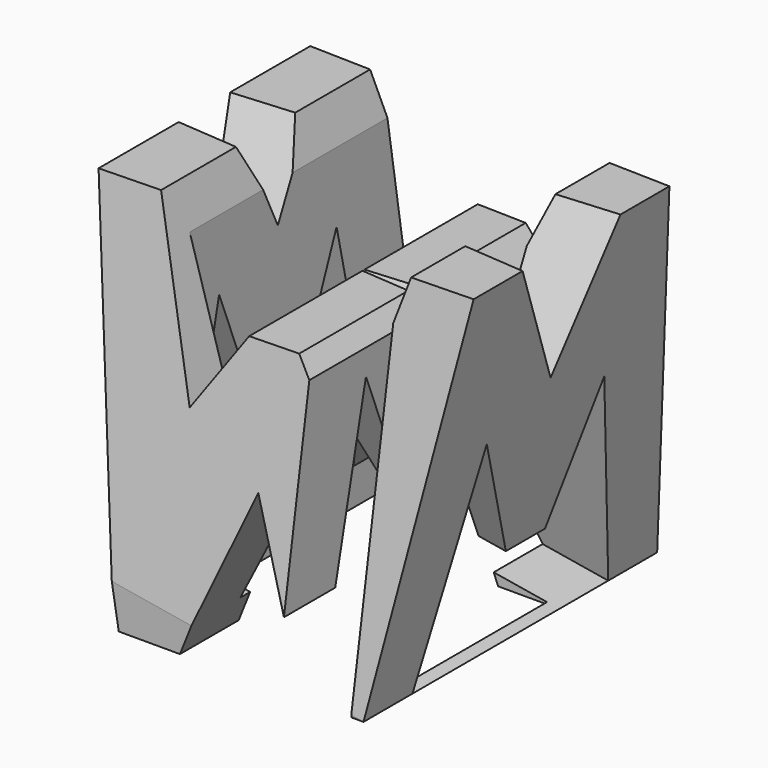
from build123d import *

# Parameters (mm, degrees)
F0_W     = 38.1
F0_H     = 38.1
F1_DEPTH = 38.1
F3_DEPTH = 38.1
F5_DEPTH = 38.1
F7_W     = 7.62
F7_H     = 25.4
F7_H_2   = 30.48
F8_DEPTH = 38.1


with BuildPart() as f1:
    # F0 (on Front) → F1 (new body)
    with BuildSketch(Plane.XZ):
        with Locations((19.05, 19.05)):
            Rectangle(F0_W, F0_H)
    extrude(amount=F1_DEPTH)

    # F2 (on face) → F3 (cut)
    with BuildSketch(Plane.XZ.offset(38.1)):
        Polygon((31.75, 38.1), (6.35, 38.1), (11.43, 20.955), (16.51, 28.575), (21.59, 28.575), (26.67, 20.955), align=None)
        Polygon((0, 38.1), (0, 0), (6.35, 0), align=None)
        Polygon((19.05, 15.875), (19.05, 0), (25.4, 0), align=None)
        Polygon((19.05, 15.875), (12.7, 0), (19.05, 0), align=None)
        Polygon((38.1, 0), (38.1, 38.1), (31.75, 0), align=None)
    extrude(amount=-F3_DEPTH, mode=Mode.SUBTRACT)

    # F4 (on face) → F5 (cut)
    with BuildSketch(Plane(origin=(30.891892, 0, -5.148649), x_dir=(0, 1, 0), z_dir=(0.986394, 0, -0.164399))):
        Polygon((-6.35, 43.84521), (0, 5.219668), (0, 43.84521), align=None)
        Polygon((-12.7, 43.84521), (-19.05, 43.84521), (-19.05, 30.619668), align=None)
        Polygon((-19.05, 43.84521), (-25.4, 43.84521), (-19.05, 30.619668), align=None)
        Polygon((-26.67, 27.444668), (-31.75, 5.219668), (-6.35, 5.219668), (-11.43, 27.444668), (-16.51, 14.744668), (-21.59, 14.744668), align=None)
        Polygon((-31.75, 43.84521), (-38.1, 43.84521), (-38.1, 5.219668), align=None)
    extrude(amount=-F5_DEPTH, mode=Mode.SUBTRACT)

    # F7 (on offset) → F8 (cut)
    with BuildSketch(Plane.XY.offset(38.1)):
        with Locations((26.67, -25.4)):
            Rectangle(F7_W, F7_H)
        with Locations((11.43, -15.24)):
            Rectangle(F7_W, F7_H_2)
    extrude(amount=-F8_DEPTH, mode=Mode.SUBTRACT)


solid = f1.part
